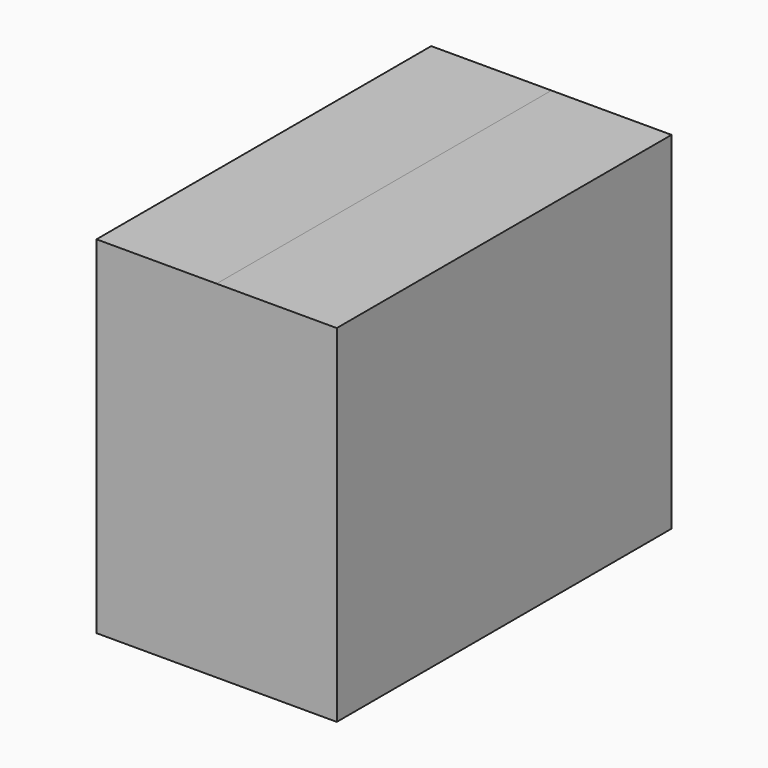
from build123d import *

# Parameters (mm, degrees)
F0_W      = 88.46055
F0_H      = 73.300339
F1_DEPTH  = 25.4
F1_FACE_W = 88.46055
F1_FACE_H = 73.30034
F2_DEPTH  = 25.4
F3_DEPTH  = 25.4


with BuildPart() as f1:
    # F0 (on Right) → F1 (new body)
    with BuildSketch(Plane.YZ):
        with Locations((1.719203, -36.650169)):
            Rectangle(F0_W, F0_H)
    extrude(amount=F1_DEPTH)

    # F1_face (on face) → F2 (join)
    with BuildSketch(Plane(origin=(25.4, 1.719203, -36.65017), x_dir=(0, 1, 0), z_dir=(1, 0, 0))):
        Rectangle(F1_FACE_W, F1_FACE_H)
    extrude(amount=F2_DEPTH)

    # F0 (on Right) → F3 (join)
    with BuildSketch(Plane.YZ):
        with Locations((1.719203, -36.650169)):
            Rectangle(F0_W, F0_H)
    extrude(amount=F3_DEPTH)


solid = f1.part
